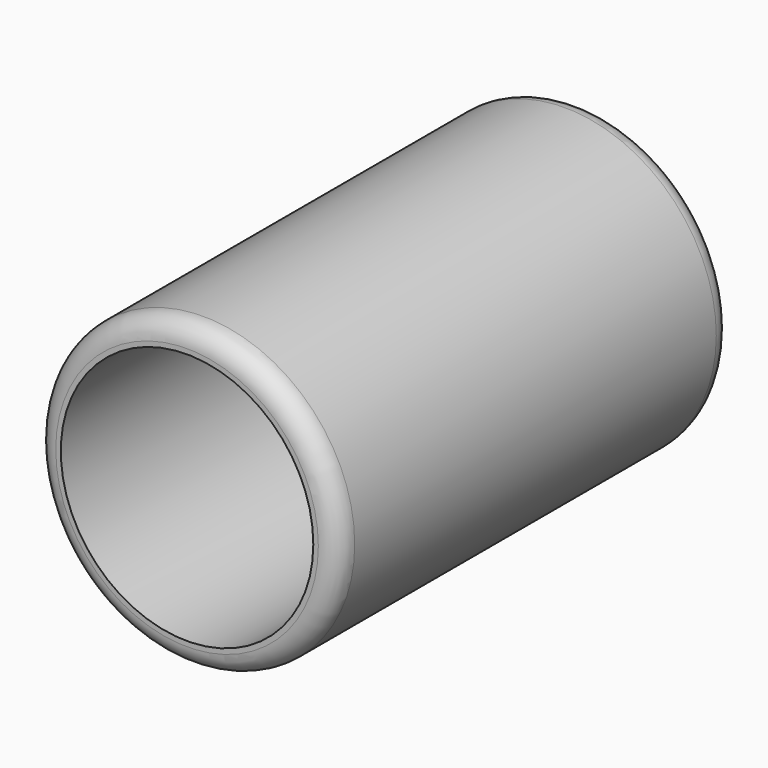
from build123d import *

# Parameters (mm, degrees)
F0_R     = 38.1
F0_R_2   = 31.75
F1_DEPTH = 123.825
F2_R     = 31.75
F3_DEPTH = 9.525
F4_R     = 5.08


with BuildPart() as f1:
    # F0 (on Front) → F1 (new body)
    with BuildSketch(Plane.XZ):
        Circle(F0_R)
        Circle(F0_R_2, mode=Mode.SUBTRACT)
    extrude(amount=F1_DEPTH)

    # F2 (on Front) → F3 (join)
    with BuildSketch(Plane.XZ):
        Circle(F2_R)
    extrude(amount=F3_DEPTH)

    # F4
    f4_edges = [f1.edges().sort_by_distance(p)[0] for p in [
        (-38.1, -123.825, 0),
        (38.1, -61.9125, 0),
        (-38.1, 0, 0),
    ]]
    fillet(f4_edges, radius=F4_R)


solid = f1.part
